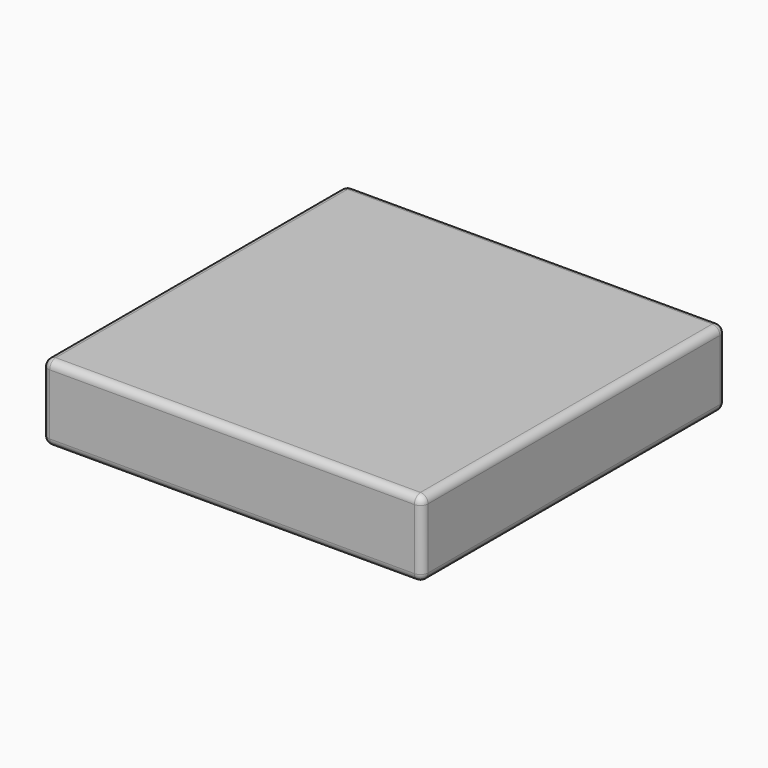
from build123d import *

# Parameters (mm, degrees)
F0_W     = 3810
F0_H     = 762
F1_DEPTH = 3810
F2_R     = 76.2


with BuildPart() as f1:
    # F0 (on Front) → F1 (new body)
    with BuildSketch(Plane.XZ):
        with Locations((676.148587, 40.64626)):
            Rectangle(F0_W, F0_H)
        with Locations((676.148587, 40.64626)):
            Rectangle(F0_W, F0_H)
    extrude(amount=F1_DEPTH)

    # F2
    f2_edges = [f1.edges().sort_by_distance(p)[0] for p in [
        (676.148587, -3810, -340.35374),
        (-1228.851413, -1905, -340.35374),
        (676.148587, 0, -340.35374),
        (2581.148587, -1905, -340.35374),
        (-1228.851413, 0, 40.64626),
        (-1228.851413, -3810, 40.64626),
        (2581.148587, 0, 40.64626),
        (2581.148587, -3810, 40.64626),
        (676.148587, -3810, 421.64626),
        (-1228.851413, -1905, 421.64626),
        (676.148587, 0, 421.64626),
        (2581.148587, -1905, 421.64626),
    ]]
    fillet(f2_edges, radius=F2_R)


solid = f1.part
